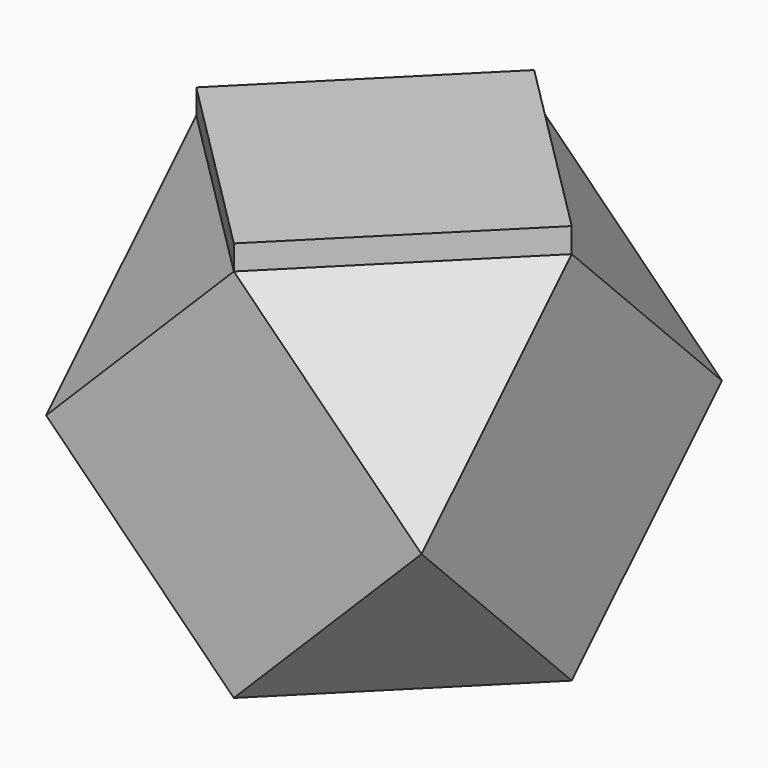
from build123d import *

# Parameters (mm, degrees)
F0_W     = 38
F0_H     = 38
F1_DEPTH = 76
F5_COUNT = 4
F8_DEPTH = 5


with BuildPart() as f1:
    # F0 (on Top) → F1 (new body)
    with BuildSketch(Plane.XY):
        with Locations((-19, 19)):
            Rectangle(F0_W, F0_H)
    extrude(amount=F1_DEPTH)

    # F4: sweep along a path in F2
    with BuildLine(Plane.XY) as f4_path:
        Line((-76, -38), (0, 38))
    # F3 (on face) → F4 (sweep, cut)
    with BuildSketch(Plane(origin=(-38, 0, 0), x_dir=(0, -1, 0), z_dir=(-1, 0, 0))):
        Polygon((-38, 76), (-38, 38), (0, 76), align=None)
        Polygon((-38, 0), (0, 0), (-38, 38), align=None)
    sweep(path=f4_path.line, mode=Mode.SUBTRACT)


with BuildPart() as f5_1:
    # F5: instance of F1
    add(f1.part.rotate(Axis((0, 0, 38), (0, 0, 1)), 1 * 360 / F5_COUNT))


with BuildPart() as f5_2:
    # F5: instance of F1
    add(f1.part.rotate(Axis((0, 0, 38), (0, 0, 1)), 2 * 360 / F5_COUNT))


with BuildPart() as f5_3:
    # F5: instance of F1
    add(f1.part.rotate(Axis((0, 0, 38), (0, 0, 1)), 3 * 360 / F5_COUNT))


with BuildPart() as f5_1_1:
    add(f5_1.part)

    # F6: union F1, F5_3, F5_2
    add(f1.part)
    add(f5_3.part)
    add(f5_2.part)

    # F7 (on face) → F8 (join)
    with BuildSketch(Plane.XY.offset(76)):
        Polygon((-38, 0), (0, -38), (38, 0), (0, 38), align=None)
    extrude(amount=F8_DEPTH)


solid = f5_1_1.part
